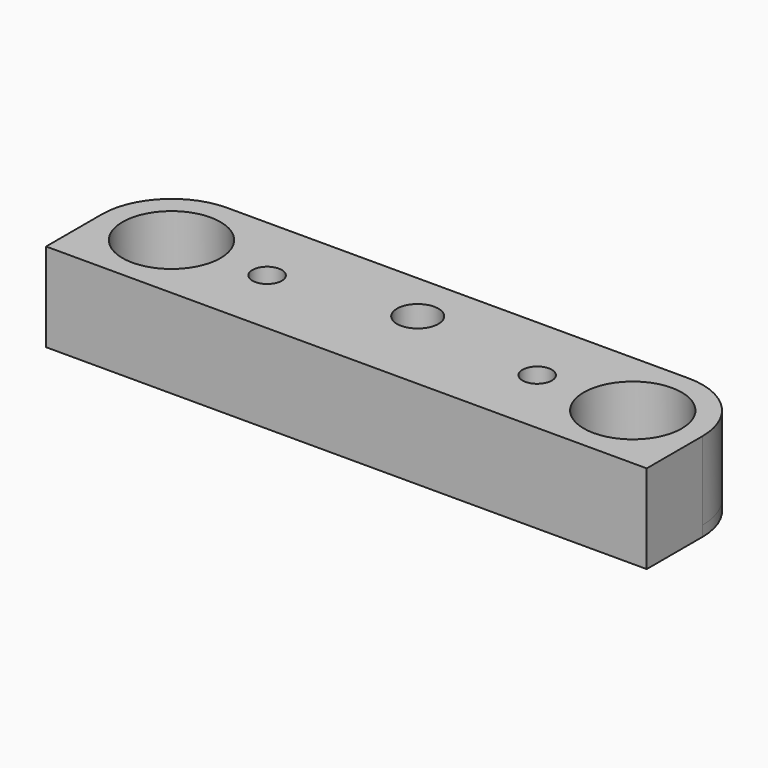
from build123d import *

# Parameters (mm, degrees)
F0_W     = 92.0124906
F0_H     = 21.3499954
F0_R     = 6.7062477
F1_DEPTH = 1.5875
F2_R     = 10.6749977
F4_DEPTH = 12
F5_R     = 2.2479
F6_DEPTH = 13.5875
F7_R     = 3.96875
F8_DEPTH = 7.2375014


with BuildPart() as f1:
    # F0 (on Top) → F1 (new body)
    with BuildSketch(Plane.XY):
        with Locations((46.0062453, -10.6749977)):
            Rectangle(F0_W, F0_H)
        with Locations((10.6749977, -10.6749977)):
            Circle(F0_R, mode=Mode.SUBTRACT)
        with Locations((81.3374929, -10.6749977)):
            Circle(F0_R, mode=Mode.SUBTRACT)
    extrude(amount=F1_DEPTH)

    # F2
    f2_edges = [f1.edges().sort_by_distance(p)[0] for p in [
        (0, 0, 0.79375),
        (92.012491, 0, 0.79375),
    ]]
    fillet(f2_edges, radius=F2_R)

    # F3 (on face) → F4 (join)
    with BuildSketch(Plane.XY.offset(1.5875)):
        with BuildLine():
            Line((4.5476495872, -14.9999954), (0, -14.9999954))
            Line((0, -14.9999954), (0, -21.3499954))
            Line((0, -21.3499954), (92.0124906, -21.3499954))
            Line((92.0124906, -21.3499954), (92.0124906, -14.9999954))
            Line((92.0124906, -14.9999954), (87.4648410128, -14.9999954))
            ThreePointArc((87.4648410128, -14.9999954), (81.3374929, -18.1749977), (75.2101447872, -14.9999954))
            Line((75.2101447872, -14.9999954), (16.8023458128, -14.9999954))
            ThreePointArc((16.8023458128, -14.9999954), (10.6749977, -18.1749977), (4.5476495872, -14.9999954))
        make_face()
        with BuildLine():
            Line((0, -10.6749977), (0, -14.9999954))
            Line((0, -14.9999954), (4.5476495872, -14.9999954))
            ThreePointArc((4.5476495872, -14.9999954), (8.4061996532, -3.5263925617), (18.1749977, -10.6749977))
            ThreePointArc((18.1749977, -10.6749977), (17.8236028383, -12.9437957468), (16.8023458128, -14.9999954))
            Line((16.8023458128, -14.9999954), (75.2101447872, -14.9999954))
            ThreePointArc((75.2101447872, -14.9999954), (79.0686948532, -3.5263925617), (88.8374929, -10.6749977))
            ThreePointArc((88.8374929, -10.6749977), (88.4860980383, -12.9437957468), (87.4648410128, -14.9999954))
            Line((87.4648410128, -14.9999954), (92.0124906, -14.9999954))
            Line((92.0124906, -14.9999954), (92.0124906, -10.6749977))
            ThreePointArc((92.0124906, -10.6749977), (88.8858561628, -3.1266344372), (81.3374929, 0))
            Line((81.3374929, 0), (10.6749977, 0))
            ThreePointArc((10.6749977, 0), (3.1266344372, -3.1266344372), (0, -10.6749977))
        make_face()
    extrude(amount=F4_DEPTH)

    # F5 (on face) → F6 (cut, through all)
    with BuildSketch(Plane.XY.offset(13.5875)):
        with Locations((25.3187477, -10.6749977)):
            Circle(F5_R)
        with Locations((66.6937429, -10.6749977)):
            Circle(F5_R)
        with BuildLine():
            ThreePointArc((46.0062453, -10.8706539), (48.2513093303, -9.9407179303), (49.1812453, -7.6956539))
            ThreePointArc((49.1812453, -7.6956539), (43.7611812697, -5.4505898697), (46.0062453, -10.8706539))
        make_face()
    extrude(amount=-F6_DEPTH, mode=Mode.SUBTRACT)

    # F7 (on face) → F8 (cut)
    with BuildSketch(Plane(origin=(0, 0, 0), x_dir=(1, 0, 0), z_dir=(0, 0, -1))):
        with Locations((66.6937429, 10.6749977)):
            Circle(F7_R)
        with Locations((25.3187477, 10.6749977)):
            Circle(F7_R)
    extrude(amount=-F8_DEPTH, mode=Mode.SUBTRACT)


solid = f1.part
